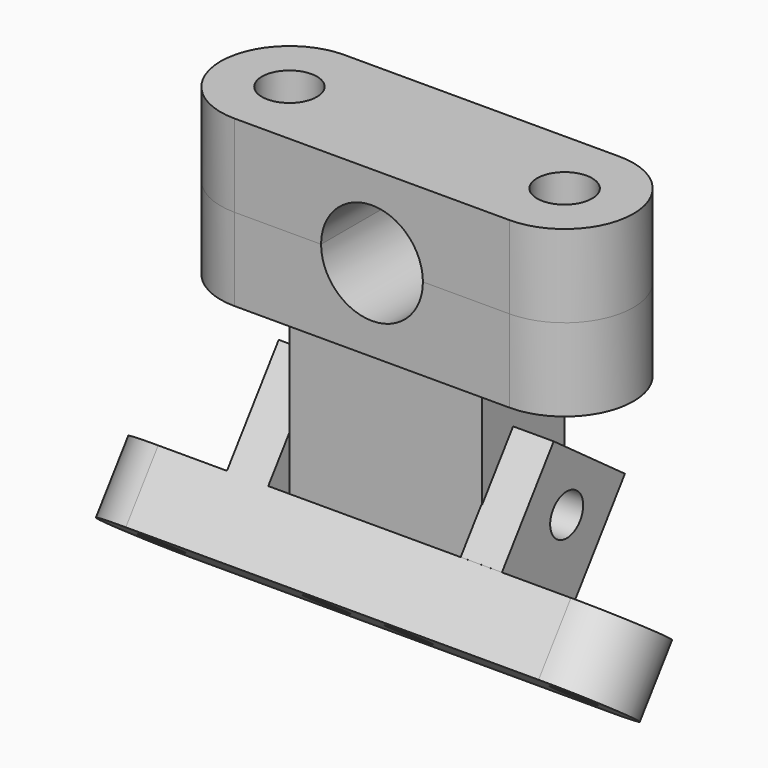
from build123d import *

# Parameters (mm, degrees)
SKETCH_R                = 2
PAD_DEPTH               = 6
CYLINDER_R              = 3.7
CYLINDER_DEPTH          = 10
SKETCH001_W             = 14
SKETCH001_H             = 7.5
PAD001_DEPTH            = 12
SKETCH002_R             = 1.5
POCKET_DEPTH            = 14
BODY_PLACEMENT_ANGLE    = 180
SKETCH003_R             = 1.5
PAD002_DEPTH            = 5
SKETCH004_W             = 3
SKETCH004_H             = 8
PAD003_DEPTH            = 8
SKETCH005_R             = 1.5
POCKET001_DEPTH         = 23
BODY001_PLACEMENT_ANGLE = 36
SKETCH006_R             = 2
PAD004_DEPTH            = 6
CYLINDER001_R           = 3.7
CYLINDER001_DEPTH       = 10


with BuildPart() as body:
    # Sketch → Pad (new body)
    with BuildSketch(Plane.XY):
        with BuildLine():
            ThreePointArc((2.9e-05, 5), (-5, 1e-05), (1e-05, -5))
            Line((1e-05, -5), (20.00001, -5))
            ThreePointArc((20.00001, -5), (25.000039, -1e-05), (20.000029, 5))
            Line((2.9e-05, 5), (20.000029, 5))
        make_face()
        Circle(SKETCH_R, mode=Mode.SUBTRACT)
        with Locations((20.000039, 0)):
            Circle(SKETCH_R, mode=Mode.SUBTRACT)
    extrude(amount=PAD_DEPTH)

    # Cylinder → Cylinder (cut)
    with BuildSketch(Plane(origin=(10, 5, 0), x_dir=(1, 0, 0), z_dir=(0, -1, 0))):
        Circle(CYLINDER_R)
    extrude(amount=CYLINDER_DEPTH, mode=Mode.SUBTRACT)

    # Sketch001 (on Face5 of Cylinder) → Pad001 (join)
    with BuildSketch(Plane(origin=(10, 5, 6), x_dir=(-1, 0, 0), z_dir=(0, 0, 1))):
        with Locations((0, 5)):
            Rectangle(SKETCH001_W, SKETCH001_H)
    extrude(amount=PAD001_DEPTH)

    # Sketch002 (on Face10 of Pad001) → Pocket (cut)
    with BuildSketch(Plane(origin=(17, 5, 0), x_dir=(0, 0, 1), z_dir=(1, 0, 0))):
        with Locations((15, 4.75)):
            Circle(SKETCH002_R)
    extrude(amount=-POCKET_DEPTH, mode=Mode.SUBTRACT)


with BuildPart() as body_1:
    # Body placement: moved
    add(body.part.rotate(Axis((0, 0, 0), (0, 1, 0)), BODY_PLACEMENT_ANGLE))


with BuildPart() as body001:
    # Sketch003 → Pad002 (new body)
    with BuildSketch(Plane.XY):
        with BuildLine():
            Line((32.750175, 18.812472), (62.750175, 18.812472))
            ThreePointArc((62.750169, 10.812472), (66.750155, 14.812469), (62.750175, 18.812472))
            Line((32.750169, 10.812472), (62.750169, 10.812472))
            ThreePointArc((32.750175, 18.812472), (28.750176, 14.812476), (32.750169, 10.812472))
        make_face()
        with Locations((32.750176, 14.812472)):
            Circle(SKETCH003_R, mode=Mode.SUBTRACT)
        with Locations((62.750155, 14.812472)):
            Circle(SKETCH003_R, mode=Mode.SUBTRACT)
        with Locations((50.750155, 14.812472)):
            Circle(SKETCH003_R, mode=Mode.SUBTRACT)
        with Locations((44.750176, 14.812472)):
            Circle(SKETCH003_R, mode=Mode.SUBTRACT)
    extrude(amount=PAD002_DEPTH)

    # Sketch004 (on Face10 of Pad002) → Pad003 (join)
    with BuildSketch(Plane.XY.offset(5)):
        with Locations((39.250176, 14.812472)):
            Rectangle(SKETCH004_W, SKETCH004_H)
        with Locations((56.250155, 14.788555)):
            Rectangle(SKETCH004_W, SKETCH004_H)
    extrude(amount=PAD003_DEPTH)

    # Sketch005 (on Face20 of Pad003) → Pocket001 (cut)
    with BuildSketch(Plane.YZ.offset(57.750155)):
        with Locations((14.788555, 9.5)):
            Circle(SKETCH005_R)
    extrude(amount=-POCKET001_DEPTH, mode=Mode.SUBTRACT)


with BuildPart() as body001_1:
    # Body001 placement: moved
    add(body001.part.moved(Location((-57.8, -17.3, -14))).rotate(Axis((-57.8, -17.3, -14), (-1, 0, 0)), BODY001_PLACEMENT_ANGLE))


with BuildPart() as body002:
    # Sketch006 → Pad004 (new body)
    with BuildSketch(Plane.XY):
        with BuildLine():
            ThreePointArc((2.9e-05, 5), (-5, 1e-05), (1e-05, -5))
            Line((1e-05, -5), (20.00001, -5))
            ThreePointArc((20.00001, -5), (25.000039, -1e-05), (20.000029, 5))
            Line((2.9e-05, 5), (20.000029, 5))
        make_face()
        Circle(SKETCH006_R, mode=Mode.SUBTRACT)
        with Locations((20.000039, 0)):
            Circle(SKETCH006_R, mode=Mode.SUBTRACT)
    extrude(amount=PAD004_DEPTH)

    # Cylinder001 → Cylinder001 (cut)
    with BuildSketch(Plane(origin=(10, 5, 0), x_dir=(1, 0, 0), z_dir=(0, -1, 0))):
        Circle(CYLINDER001_R)
    extrude(amount=CYLINDER001_DEPTH, mode=Mode.SUBTRACT)


with BuildPart() as body002_1:
    # Body002 placement: moved
    add(body002.part.moved(Location((-20, 0, 0))))


solid = Compound([body_1.part, body001_1.part, body002_1.part])
